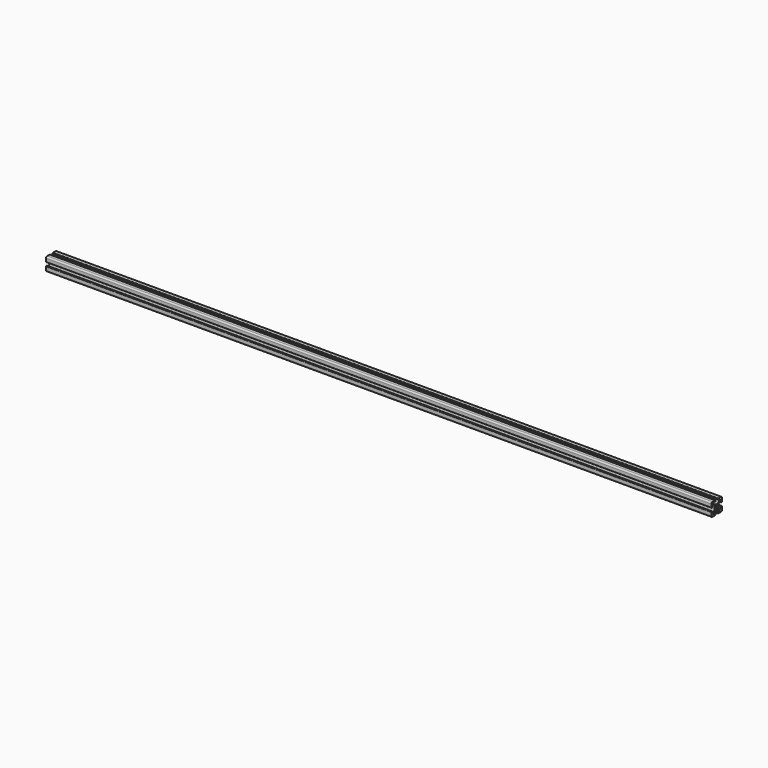
from build123d import *

# Parameters (mm, degrees)
F0_R     = 2
F1_DEPTH = 1000


with BuildPart() as f1:
    # F0 (on Right) → F1 (new body)
    with BuildSketch(Plane.YZ):
        with BuildLine():
            Line((-3.3, 10), (-8, 10))
            ThreePointArc((-8, 10), (-9.414214, 9.414214), (-10, 8))
            Line((-10, 8), (-10, 3.3))
            ThreePointArc((-10, 3.3), (-9.765685, 2.734315), (-9.2, 2.5))
            Line((-9.2, 2.5), (-8.5, 2.5))
            ThreePointArc((-8.5, 2.5), (-8.287868, 2.587868), (-8.2, 2.8))
            Line((-8.2, 2.8), (-8.2, 4.92))
            ThreePointArc((-8.2, 4.92), (-7.687627, 5.68682), (-6.783101, 5.506899))
            Line((-6.783101, 5.506899), (-4.525962, 3.249759))
            ThreePointArc((-4.525962, 3.249759), (-3.877655, 2.279499), (-3.65, 1.135))
            Line((-3.65, 1.135), (-3.65, -1.135))
            ThreePointArc((-3.65, -1.135), (-3.877655, -2.279499), (-4.525962, -3.249759))
            Line((-4.525962, -3.249759), (-6.783101, -5.506899))
            ThreePointArc((-6.783101, -5.506899), (-7.687627, -5.68682), (-8.2, -4.92))
            Line((-8.2, -4.92), (-8.2, -2.8))
            ThreePointArc((-8.2, -2.8), (-8.287868, -2.587868), (-8.5, -2.5))
            Line((-8.5, -2.5), (-9.2, -2.5))
            ThreePointArc((-9.2, -2.5), (-9.765685, -2.734315), (-10, -3.3))
            Line((-10, -3.3), (-10, -8))
            ThreePointArc((-10, -8), (-9.414214, -9.414214), (-8, -10))
            Line((-8, -10), (-3.3, -10))
            ThreePointArc((-3.3, -10), (-2.734315, -9.765685), (-2.5, -9.2))
            Line((-2.5, -9.2), (-2.5, -8.5))
            ThreePointArc((-2.5, -8.5), (-2.587868, -8.287868), (-2.8, -8.2))
            Line((-2.8, -8.2), (-4.92, -8.2))
            ThreePointArc((-4.92, -8.2), (-5.68682, -7.687627), (-5.506899, -6.783101))
            Line((-5.506899, -6.783101), (-3.249759, -4.525962))
            ThreePointArc((-3.249759, -4.525962), (-2.279499, -3.877655), (-1.135, -3.65))
            Line((-1.135, -3.65), (1.135, -3.65))
            ThreePointArc((1.135, -3.65), (2.279499, -3.877655), (3.249759, -4.525962))
            Line((3.249759, -4.525962), (5.506899, -6.783101))
            ThreePointArc((5.506899, -6.783101), (5.68682, -7.687627), (4.92, -8.2))
            Line((4.92, -8.2), (2.8, -8.2))
            ThreePointArc((2.8, -8.2), (2.587868, -8.287868), (2.5, -8.5))
            Line((2.5, -8.5), (2.5, -9.2))
            ThreePointArc((2.5, -9.2), (2.734315, -9.765685), (3.3, -10))
            Line((3.3, -10), (8, -10))
            ThreePointArc((8, -10), (9.414214, -9.414214), (10, -8))
            Line((10, -8), (10, -3.3))
            ThreePointArc((10, -3.3), (9.765685, -2.734315), (9.2, -2.5))
            Line((9.2, -2.5), (8.5, -2.5))
            ThreePointArc((8.5, -2.5), (8.287868, -2.587868), (8.2, -2.8))
            Line((8.2, -2.8), (8.2, -4.92))
            ThreePointArc((8.2, -4.92), (7.687627, -5.68682), (6.783101, -5.506899))
            Line((6.783101, -5.506899), (4.525962, -3.249759))
            ThreePointArc((4.525962, -3.249759), (3.877655, -2.279499), (3.65, -1.135))
            Line((3.65, -1.135), (3.65, 1.135))
            ThreePointArc((3.65, 1.135), (3.877655, 2.279499), (4.525962, 3.249759))
            Line((4.525962, 3.249759), (6.783101, 5.506899))
            ThreePointArc((6.783101, 5.506899), (7.687627, 5.68682), (8.2, 4.92))
            Line((8.2, 4.92), (8.2, 2.8))
            ThreePointArc((8.2, 2.8), (8.287868, 2.587868), (8.5, 2.5))
            Line((8.5, 2.5), (9.2, 2.5))
            ThreePointArc((9.2, 2.5), (9.765685, 2.734315), (10, 3.3))
            Line((10, 3.3), (10, 8))
            ThreePointArc((10, 8), (9.414214, 9.414214), (8, 10))
            Line((8, 10), (3.3, 10))
            ThreePointArc((3.3, 10), (2.734315, 9.765685), (2.5, 9.2))
            Line((2.5, 9.2), (2.5, 8.5))
            ThreePointArc((2.5, 8.5), (2.587868, 8.287868), (2.8, 8.2))
            Line((2.8, 8.2), (4.92, 8.2))
            ThreePointArc((4.92, 8.2), (5.68682, 7.687627), (5.506899, 6.783101))
            Line((5.506899, 6.783101), (3.249759, 4.525962))
            ThreePointArc((3.249759, 4.525962), (2.279499, 3.877655), (1.135, 3.65))
            Line((1.135, 3.65), (-1.135, 3.65))
            ThreePointArc((-1.135, 3.65), (-2.279499, 3.877655), (-3.249759, 4.525962))
            Line((-3.249759, 4.525962), (-5.506899, 6.783101))
            ThreePointArc((-5.506899, 6.783101), (-5.68682, 7.687627), (-4.92, 8.2))
            Line((-4.92, 8.2), (-2.8, 8.2))
            ThreePointArc((-2.8, 8.2), (-2.587868, 8.287868), (-2.5, 8.5))
            Line((-2.5, 8.5), (-2.5, 9.2))
            ThreePointArc((-2.5, 9.2), (-2.734315, 9.765685), (-3.3, 10))
        make_face()
        Circle(F0_R, mode=Mode.SUBTRACT)
    extrude(amount=F1_DEPTH)


solid = f1.part
